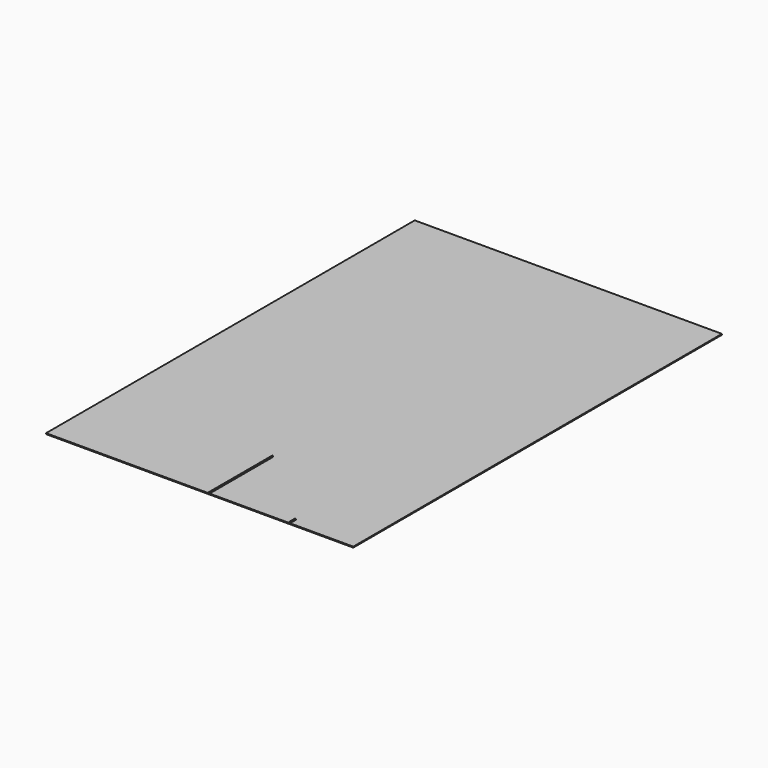
from build123d import *

# Parameters (mm, degrees)
F0_W     = 3400
F0_H     = 5100
F1_DEPTH = 10
F2_W     = 10
F2_H     = 80
F2_H_2   = 800
F3_DEPTH = 10


with BuildPart() as f1:
    # F0 (on Top) → F1 (new body)
    with BuildSketch(Plane.XY):
        Rectangle(F0_W, F0_H)
    extrude(amount=F1_DEPTH)

    # F2 (on face) → F3 (join)
    with BuildSketch(Plane.XY.offset(10)):
        with BuildLine():
            Line((995, -2550), (1000, -2550))
            Line((1000, -2550), (1000, -2470))
            Line((1000, -2470), (991.376764, -2470))
            ThreePointArc((991.376764, -2470), (994.093727, -2509.958997), (995, -2550))
        make_face()
        with BuildLine():
            Line((990, -2550), (995, -2550))
            ThreePointArc((995, -2550), (994.093727, -2509.958997), (991.376764, -2470))
            Line((991.376764, -2470), (990, -2470))
            Line((990, -2470), (990, -2550))
        make_face()
        with Locations((105, -2510)):
            Rectangle(F2_W, F2_H)
        with Locations((105, -2070)):
            Rectangle(F2_W, F2_H_2)
    extrude(amount=F3_DEPTH)


solid = f1.part
